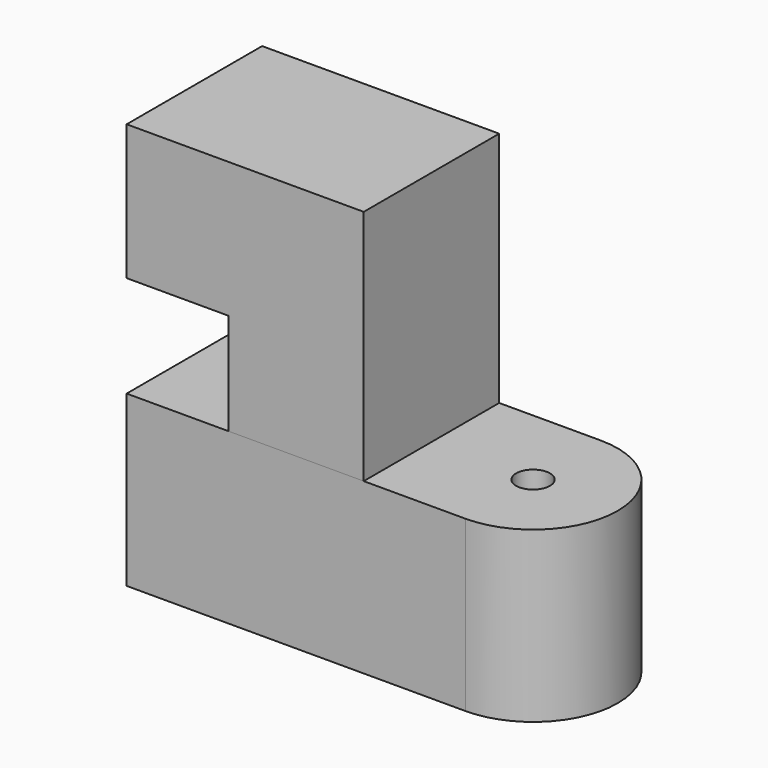
from build123d import *

# Parameters (mm, degrees)
F1_DEPTH = 25
F2_R     = 2.5
F3_DEPTH = 10
F4_R     = 2.5
F5_DEPTH = 10
F7_DEPTH = 25


with BuildPart() as f1:
    # F0 (on Top) → F1 (new body)
    with BuildSketch(Plane.XY):
        with BuildLine():
            ThreePointArc((25, -12.5), (37.5, 0), (25, 12.5))
            Line((25, 12.5), (-25, 12.5))
            Line((-25, 12.5), (-25, -12.5))
            Line((-25, -12.5), (25, -12.5))
        make_face()
    extrude(amount=F1_DEPTH)

    # F2 (on face) → F3 (cut)
    with BuildSketch(Plane.XY.offset(25)):
        with Locations((25, 0)):
            Circle(F2_R)
    extrude(amount=-F3_DEPTH, mode=Mode.SUBTRACT)

    # F4 (on face) → F5 (cut)
    with BuildSketch(Plane(origin=(-25, 0, 0), x_dir=(0, -1, 0), z_dir=(-1, 0, 0))):
        with Locations((0, 12.5)):
            Circle(F4_R)
    extrude(amount=-F5_DEPTH, mode=Mode.SUBTRACT)


with BuildPart() as f7:
    # F6 (on face) → F7 (new body)
    with BuildSketch(Plane.XZ.offset(12.5)):
        Polygon((-10, 40), (-10, 25), (10, 25), (10, 60), (-25, 60), (-25, 40), align=None)
    extrude(amount=-F7_DEPTH)


solid = Compound([f1.part, f7.part])
